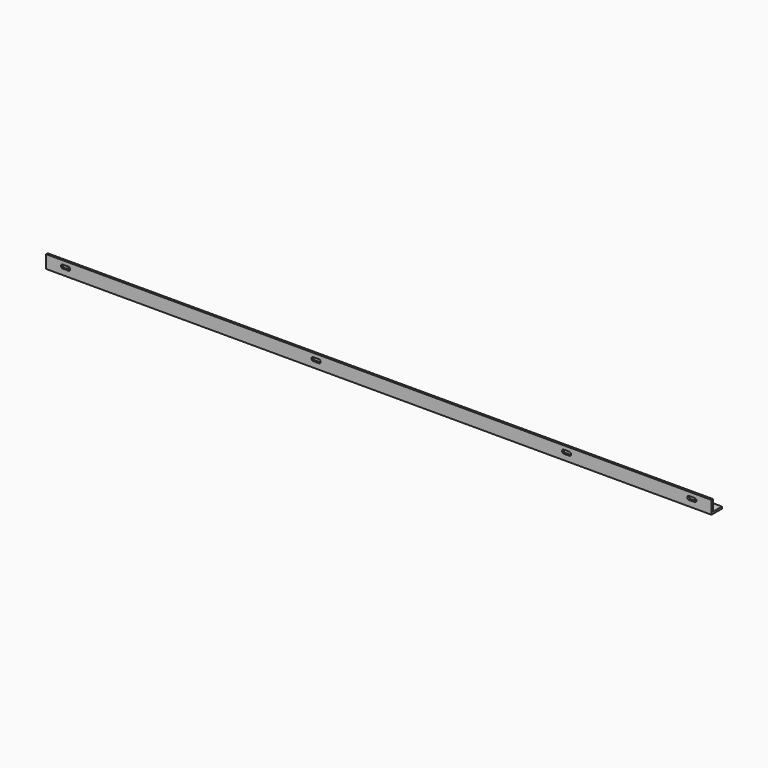
from build123d import *

# Parameters (mm, degrees)
F1_DEPTH = 1020
F3_DEPTH = 3
F5_DEPTH = 3


with BuildPart() as f1:
    # F0 (on Right) → F1 (new body)
    with BuildSketch(Plane.YZ):
        Polygon((0, 20), (0, 0), (20, 0), (20, 3), (3, 3), (3, 20), align=None)
    extrude(amount=F1_DEPTH)

    # F2 (on face) → F3 (cut)
    with BuildSketch(Plane(origin=(0, 3, 0), x_dir=(-1, 0, 0), z_dir=(0, 1, 0))):
        with BuildLine():
            Line((-985.75, 14.25), (-994.25, 14.25))
            ThreePointArc((-994.25, 14.25), (-997, 11.5), (-994.25, 8.75))
            Line((-994.25, 8.75), (-985.75, 8.75))
            ThreePointArc((-985.75, 8.75), (-983, 11.5), (-985.75, 14.25))
        make_face()
        with BuildLine():
            Line((-25.75, 14.25), (-34.25, 14.25))
            ThreePointArc((-34.25, 14.25), (-37, 11.5), (-34.25, 8.75))
            Line((-34.25, 8.75), (-25.75, 8.75))
            ThreePointArc((-25.75, 8.75), (-23, 11.5), (-25.75, 14.25))
        make_face()
        with BuildLine():
            Line((-793.75, 14.25), (-802.25, 14.25))
            ThreePointArc((-802.25, 14.25), (-805, 11.5), (-802.25, 8.75))
            Line((-802.25, 8.75), (-793.75, 8.75))
            ThreePointArc((-793.75, 8.75), (-791, 11.5), (-793.75, 14.25))
        make_face()
        with BuildLine():
            Line((-409.75, 14.25), (-418.25, 14.25))
            ThreePointArc((-418.25, 14.25), (-421, 11.5), (-418.25, 8.75))
            Line((-418.25, 8.75), (-409.75, 8.75))
            ThreePointArc((-409.75, 8.75), (-407, 11.5), (-409.75, 14.25))
        make_face()
    extrude(amount=-F3_DEPTH, mode=Mode.SUBTRACT)

    # F4 (on face) → F5 (cut)
    with BuildSketch(Plane.XY.offset(3)):
        with BuildLine():
            Line((994.25, 14.25), (985.75, 14.25))
            ThreePointArc((985.75, 14.25), (983, 11.5), (985.75, 8.75))
            Line((985.75, 8.75), (994.25, 8.75))
            ThreePointArc((994.25, 8.75), (997, 11.5), (994.25, 14.25))
        make_face()
        with BuildLine():
            Line((226.25, 14.25), (217.75, 14.25))
            ThreePointArc((217.75, 14.25), (215, 11.5), (217.75, 8.75))
            Line((217.75, 8.75), (226.25, 8.75))
            ThreePointArc((226.25, 8.75), (229, 11.5), (226.25, 14.25))
        make_face()
        with BuildLine():
            Line((34.25, 14.25), (25.75, 14.25))
            ThreePointArc((25.75, 14.25), (23, 11.5), (25.75, 8.75))
            Line((25.75, 8.75), (34.25, 8.75))
            ThreePointArc((34.25, 8.75), (37, 11.5), (34.25, 14.25))
        make_face()
        with BuildLine():
            Line((610.25, 14.25), (601.75, 14.25))
            ThreePointArc((601.75, 14.25), (599, 11.5), (601.75, 8.75))
            Line((601.75, 8.75), (610.25, 8.75))
            ThreePointArc((610.25, 8.75), (613, 11.5), (610.25, 14.25))
        make_face()
    extrude(amount=-F5_DEPTH, mode=Mode.SUBTRACT)


solid = f1.part
